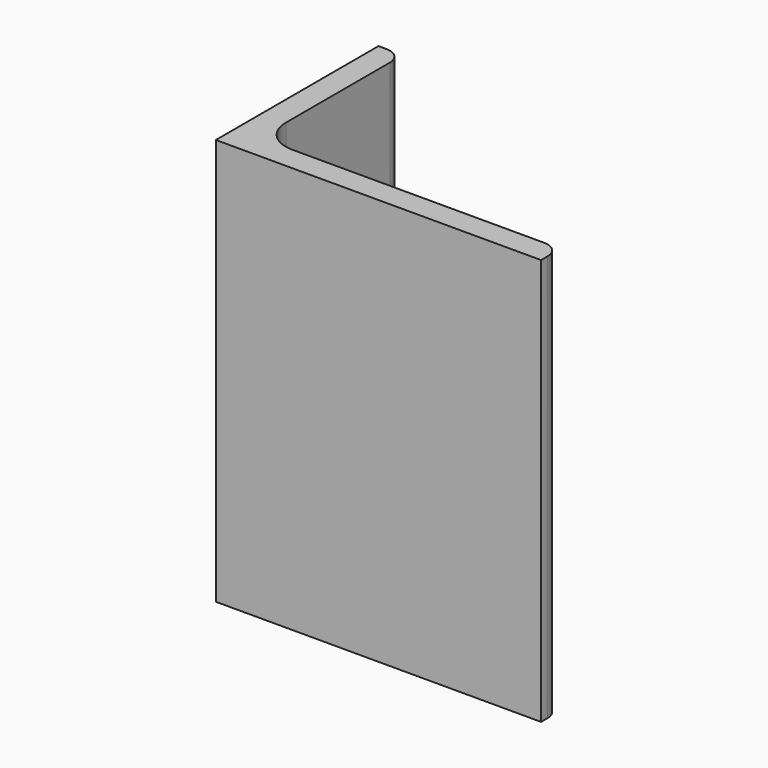
from build123d import *

# Parameters (mm, degrees)
EXTRUDE_DEPTH = 50


with BuildPart() as part:
    # Sketch → Extrude (new body)
    with BuildSketch(Plane.XY):
        with BuildLine():
            Line((0, 0), (40, 0))
            Line((40, 0), (40, 1))
            ThreePointArc((40, 1), (39.414214, 2.414214), (38, 3))
            Line((38, 3), (7, 3))
            ThreePointArc((3, 7), (4.171573, 4.171573), (7, 3))
            Line((3, 23), (3, 7))
            ThreePointArc((3, 23), (2.414214, 24.414214), (1, 25))
            Line((0, 25), (1, 25))
            Line((0, 0), (0, 25))
        make_face()
    extrude(amount=EXTRUDE_DEPTH)


solid = part.part
